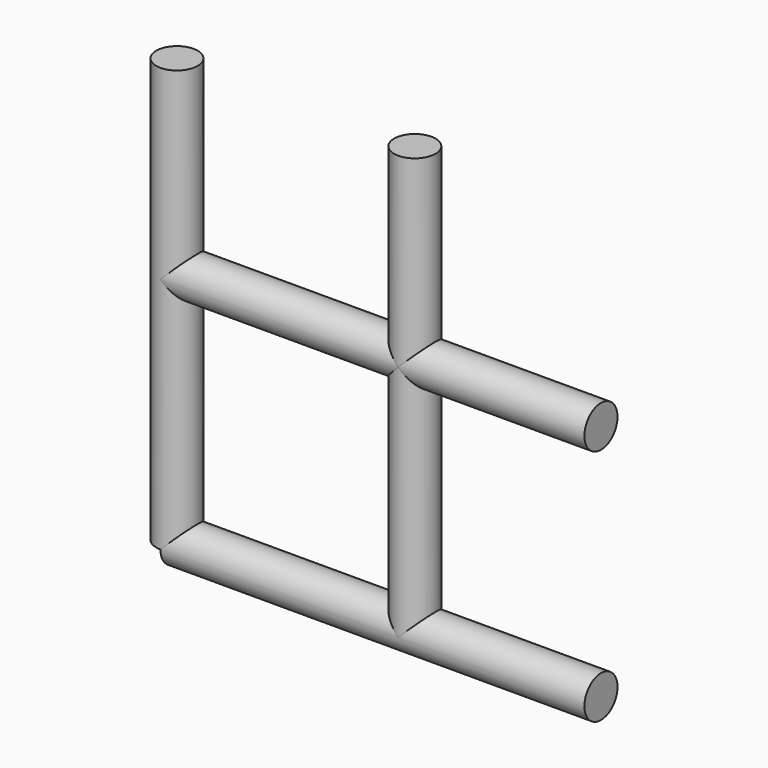
from build123d import *

# Parameters (mm, degrees)
F7_R     = 25.4
F8_DEPTH = 520.7
F6_R     = 25.4
F9_DEPTH = 520.7


with BuildPart() as f8:
    # F7 (on offset) → F8 (new body, through all)
    with BuildSketch(Plane.YZ.offset(520.7)):
        Circle(F7_R)
    extrude(amount=-F8_DEPTH)



with BuildPart() as f8b:
    # F7 (on offset) → F8, piece 2 (new body, through all)
    with BuildSketch(Plane.YZ.offset(520.7)):
        with Locations((0, 292.1)):
            Circle(F7_R)
    extrude(amount=-F8_DEPTH)


with BuildPart() as f8_1:
    add(f8.part)

    add(f8b.part)  # F9 merges F8b
    # F6 (on offset) → F9 (join, through all)
    with BuildSketch(Plane.XY.offset(520.7)):
        Circle(F6_R)
        with Locations((292.1, 0)):
            Circle(F6_R)
    extrude(amount=-F9_DEPTH)


solid = f8_1.part
